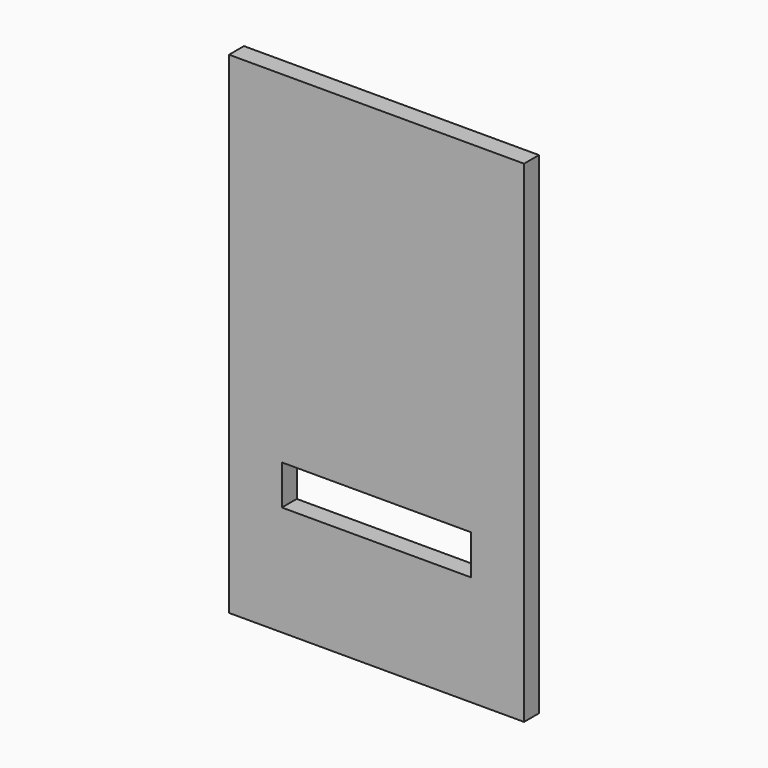
from build123d import *

# Parameters (mm, degrees)
F0_W     = 79.126954
F0_H     = 131.822198
F1_DEPTH = 5
F2_W     = 50.794452
F2_H     = 10.656148
F3_DEPTH = 10


with BuildPart() as f1:
    # F0 (on Front) → F1 (new body)
    with BuildSketch(Plane.XZ):
        Rectangle(F0_W, F0_H)
    extrude(amount=F1_DEPTH)

    # F2 (on face) → F3 (cut)
    with BuildSketch(Plane.XZ):
        with Locations((0, -31.080499)):
            Rectangle(F2_W, F2_H)
    extrude(amount=F3_DEPTH, mode=Mode.SUBTRACT)


solid = f1.part
